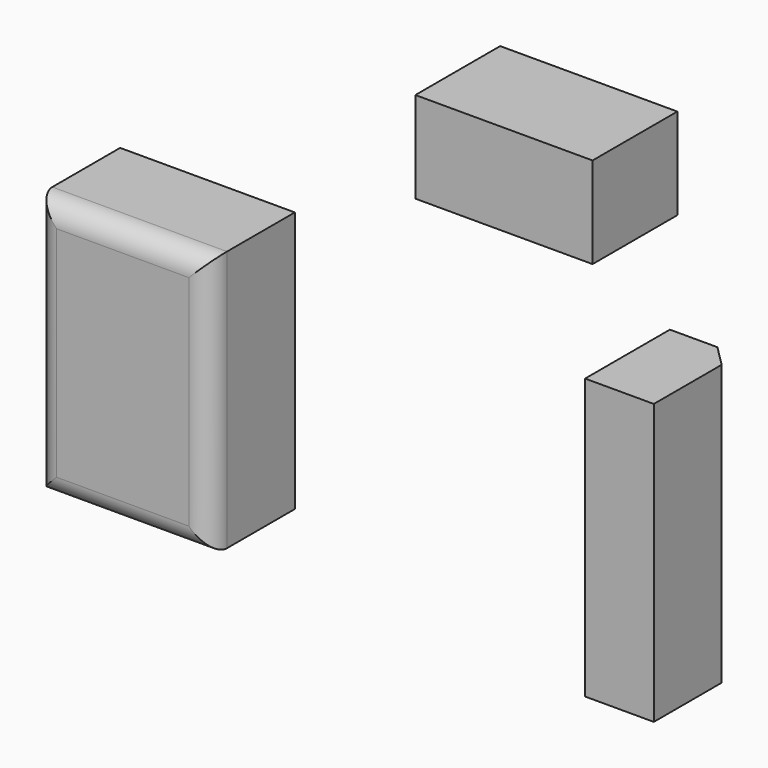
from build123d import *

# Parameters (mm, degrees)
F0_W     = 41.210938
F0_H     = 61.607003
F1_DEPTH = 25
F0_W_2   = 16.210914
F0_H_2   = 66.036731
F2_DEPTH = 25
F0_W_3   = 41.796878
F0_H_3   = 21.52805
F3_DEPTH = 25
F4_R     = 5
F5_SIZE  = 5


with BuildPart() as f1:
    # F0 (on Front) → F1 (new body)
    with BuildSketch(Plane.XZ):
        with Locations((-45.410169, 30.803501)):
            Rectangle(F0_W, F0_H)
    extrude(amount=F1_DEPTH)

    # F4
    f4_edges = [f1.edges().sort_by_distance(p)[0] for p in [
        (-45.410169, -25, 61.607003),
        (-66.015638, -25, 30.803502),
        (-45.410169, -25, 0),
        (-24.8047, -25, 30.803502),
    ]]
    fillet(f4_edges, radius=F4_R)


with BuildPart() as f2:
    # F0 (on Front) → F2 (new body)
    with BuildSketch(Plane.XZ):
        with Locations((71.777329, 33.018366)):
            Rectangle(F0_W_2, F0_H_2)
    extrude(amount=F2_DEPTH)

    # F5
    f5_edges = [f2.edges().sort_by_distance(p)[0] for p in [
        (79.882786, 0, 33.018366),
    ]]
    chamfer(f5_edges, length=F5_SIZE)


with BuildPart() as f3:
    # F0 (on Front) → F3 (new body)
    with BuildSketch(Plane.XZ):
        with Locations((44.531241, 101.136319)):
            Rectangle(F0_W_3, F0_H_3)
    extrude(amount=F3_DEPTH)


solid = Compound([f1.part, f2.part, f3.part])
